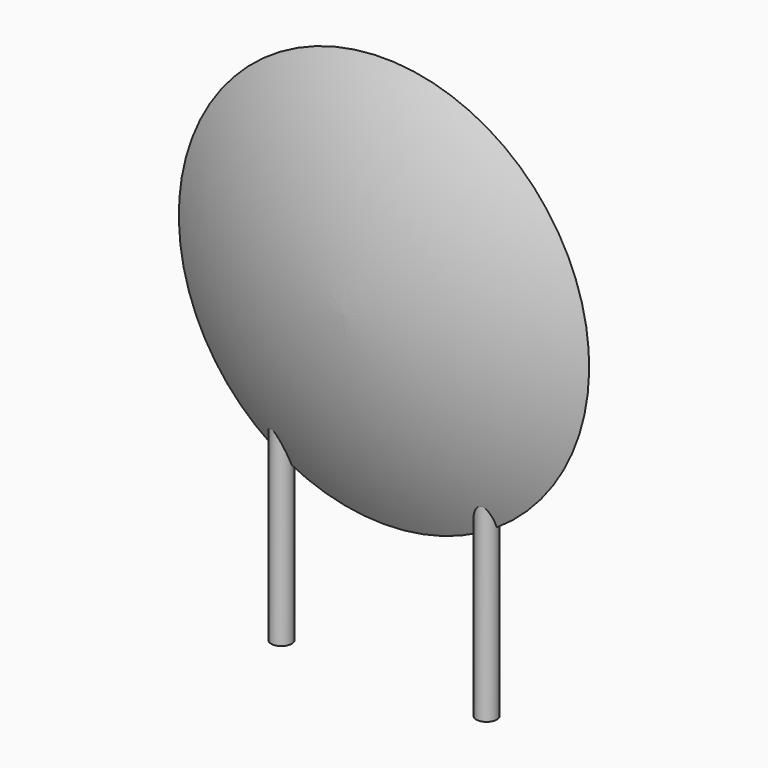
from build123d import *

# Parameters (mm, degrees)
SKETCH001_R       = 0.25
PAD001_DEPTH      = 2
PAD001_DEPTH_BACK = 3.2
SKETCH002_R       = 0.25
SKETCH003_R       = 0.25
SKETCH004_R       = 0.25
SKETCH005_R       = 0.25


with BuildPart() as pad001:
    # Sketch001 → Pad001 (new body, two sides)
    with BuildSketch(Plane.XY) as pad001_sk:
        Circle(SKETCH001_R)
        with Locations((5, 0)):
            Circle(SKETCH001_R)
    extrude(amount=PAD001_DEPTH)
    extrude(pad001_sk.sketch, amount=-PAD001_DEPTH_BACK)


with BuildPart() as revolution:
    # Sketch → Revolution (revolve)
    with BuildSketch(Plane.YZ.offset(2.5)):
        with BuildLine():
            Line((-1.25, 5.1), (1.25, 5.1))
            ThreePointArc((0, 0.1), (0.910576, 2.528606), (1.25, 5.1))
            ThreePointArc((-1.25, 5.1), (-0.910576, 2.528606), (0, 0.1))
        make_face()
    revolve(axis=Axis((2.5, -3.32079, 5.1), (0, 1, 0)))


with BuildPart() as loft_body:
    # Sketch002 → Loft section 0
    with BuildSketch(Plane.XY.offset(5)):
        with Locations((-1.5, 0)):
            Circle(SKETCH002_R)
    # Sketch003 → Loft section 1
    with BuildSketch(Plane.XY.offset(2)):
        Circle(SKETCH003_R)
    loft()


with BuildPart() as loft001:
    # Sketch004 → Loft001 section 0
    with BuildSketch(Plane.XY.offset(2)):
        with Locations((5, 0)):
            Circle(SKETCH004_R)
    # Sketch005 → Loft001 section 1
    with BuildSketch(Plane.XY.offset(5)):
        with Locations((6.5, 0)):
            Circle(SKETCH005_R)
    loft()


solid = Compound([pad001.part, revolution.part, loft_body.part, loft001.part])
